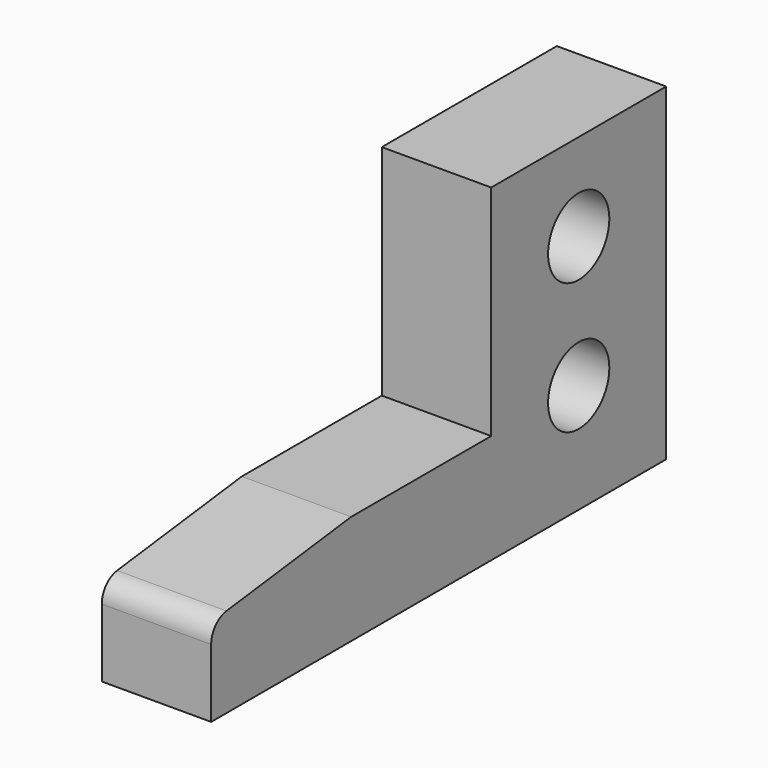
from build123d import *

# Parameters (mm, degrees)
F0_R     = 1.75
F1_DEPTH = 5
F2_SIZE2 = 8
F2_SIZE  = 1
F3_R     = 1


with BuildPart() as f1:
    # F0 (on Right) → F1 (new body)
    with BuildSketch(Plane.YZ):
        Polygon((0, 5), (0, 0), (26, 0), (26, 15), (16, 15), (16, 5), align=None)
        with Locations((21, 5)):
            Circle(F0_R, mode=Mode.SUBTRACT)
        with Locations((21, 11)):
            Circle(F0_R, mode=Mode.SUBTRACT)
    extrude(amount=F1_DEPTH)

    # F2
    f2_edges = [f1.edges().sort_by_distance(p)[0] for p in [
        (2.5, 0, 5),
    ]]
    f2_side = f1.faces().sort_by_distance((2.5, 0, 2.5))[0]
    chamfer(f2_edges, length=F2_SIZE, length2=F2_SIZE2, reference=f2_side)

    # F3
    f3_edges = [f1.edges().sort_by_distance(p)[0] for p in [
        (2.5, 0, 4),
    ]]
    fillet(f3_edges, radius=F3_R)


solid = f1.part
